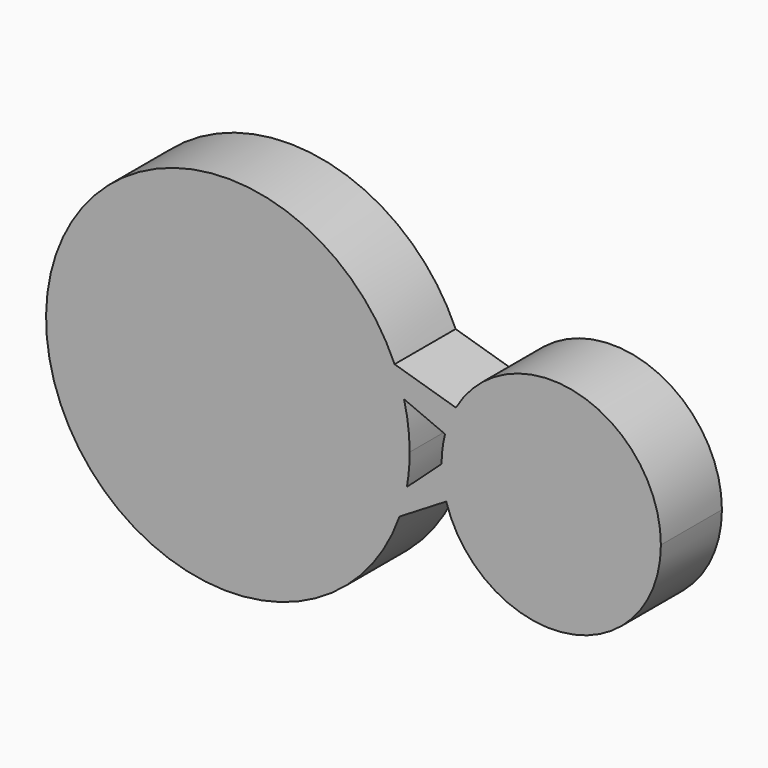
from build123d import *

# Parameters (mm, degrees)
F1_DEPTH = 25.4


with BuildPart() as f1:
    # F0 (on Front) → F1 (new body)
    with BuildSketch(Plane.XZ):
        with BuildLine():
            ThreePointArc((59.608433, -10.508263), (60.297361, -5.274193), (60.527587, 0))
            ThreePointArc((60.527587, 0), (60.059205, 7.515365), (58.661308, 14.914417))
            ThreePointArc((58.661308, 14.914417), (57.270661, 19.587247), (55.508444, 24.132996))
            ThreePointArc((55.508444, 24.132996), (-60.486634, -2.2262), (57.132283, -19.987274))
            ThreePointArc((57.132283, -19.987274), (58.562459, -15.29795), (59.608433, -10.508263))
        make_face()
        with BuildLine():
            ThreePointArc((55.508444, 24.132996), (57.270661, 19.587247), (58.661308, 14.914417))
            Line((58.661308, 14.914417), (72.307809, 9.114597))
            ThreePointArc((72.307809, 9.114597), (73.819416, 13.699147), (75.922686, 18.04418))
            Line((75.922686, 18.04418), (55.508444, 24.132996))
        make_face()
        with BuildLine():
            Line((71.151721, 0), (59.608433, -10.508263))
            ThreePointArc((59.608433, -10.508263), (58.562459, -15.29795), (57.132283, -19.987274))
            Line((57.132283, -19.987274), (72.696744, -10.508263))
            ThreePointArc((72.696744, -10.508263), (71.540042, -5.310619), (71.151721, 0))
        make_face()
        with BuildLine():
            ThreePointArc((75.922686, 18.04418), (73.819416, 13.699147), (72.307809, 9.114597))
            ThreePointArc((72.307809, 9.114597), (71.441896, 4.593812), (71.151721, 0))
            ThreePointArc((71.151721, 0), (71.540042, -5.310619), (72.696744, -10.508263))
            ThreePointArc((72.696744, -10.508263), (112.970108, -36.119447), (144.167257, 0))
            ThreePointArc((144.167257, 0), (116.991618, 35.294879), (75.922686, 18.04418))
        make_face()
    extrude(amount=F1_DEPTH)


solid = f1.part
